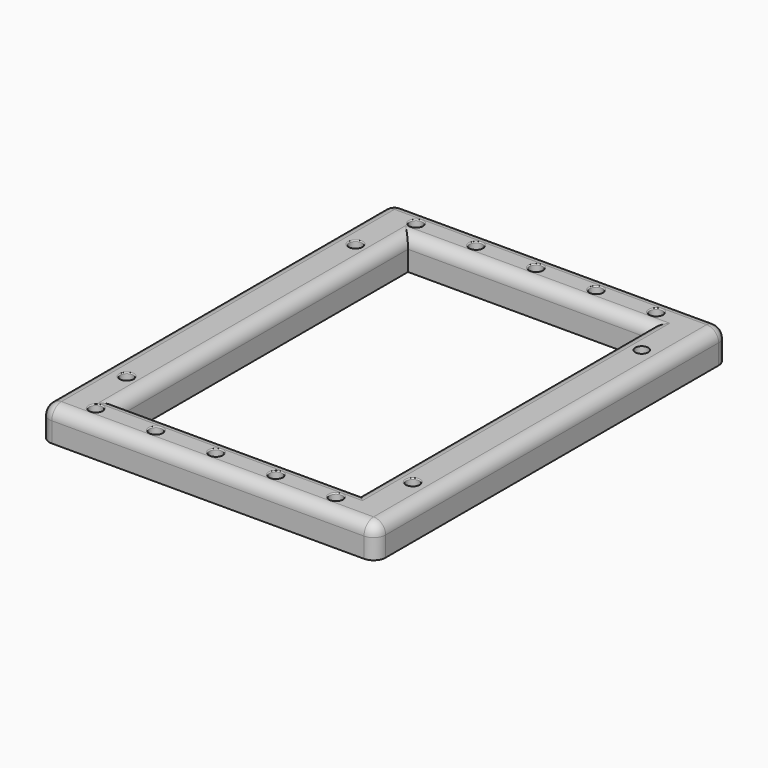
from build123d import *

# Parameters (mm, degrees)
SKETCH015_R      = 3
EXTRUDE015_DEPTH = 3.5
SKETCH014_W      = 84
SKETCH014_H      = 110
SKETCH014_R      = 1.625
SKETCH014_W_2    = 60
SKETCH014_H_2    = 90
EXTRUDE014_DEPTH = 8
FILLET020_R      = 3
FILLET021_R      = 0.25


with BuildPart() as extrude015:
    # Sketch015 → Extrude015 (new body)
    with BuildSketch(Plane.XY):
        with Locations((24.3, 95.75)):
            Circle(SKETCH015_R)
        with Locations((95.8, 95.75)):
            Circle(SKETCH015_R)
        with Locations((95.8, 24.25)):
            Circle(SKETCH015_R)
        with Locations((24.3, 24.25)):
            Circle(SKETCH015_R)
    extrude(amount=EXTRUDE015_DEPTH)


with BuildPart() as n2holder001:
    # Sketch014 → Extrude014 (new body)
    with BuildSketch(Plane.XY):
        with Locations((60, 60)):
            Rectangle(SKETCH014_W, SKETCH014_H)
        with Locations((24.3, 95.75)):
            Circle(SKETCH014_R, mode=Mode.SUBTRACT)
        with Locations((95.8, 95.75)):
            Circle(SKETCH014_R, mode=Mode.SUBTRACT)
        with Locations((95.8, 24.25)):
            Circle(SKETCH014_R, mode=Mode.SUBTRACT)
        with Locations((24.3, 24.25)):
            Circle(SKETCH014_R, mode=Mode.SUBTRACT)
        with Locations((28, 10)):
            Circle(SKETCH014_R, mode=Mode.SUBTRACT)
        with Locations((43, 10)):
            Circle(SKETCH014_R, mode=Mode.SUBTRACT)
        with Locations((58, 10)):
            Circle(SKETCH014_R, mode=Mode.SUBTRACT)
        with Locations((73, 10)):
            Circle(SKETCH014_R, mode=Mode.SUBTRACT)
        with Locations((88, 10)):
            Circle(SKETCH014_R, mode=Mode.SUBTRACT)
        with Locations((28, 110)):
            Circle(SKETCH014_R, mode=Mode.SUBTRACT)
        with Locations((43, 110)):
            Circle(SKETCH014_R, mode=Mode.SUBTRACT)
        with Locations((58, 110)):
            Circle(SKETCH014_R, mode=Mode.SUBTRACT)
        with Locations((73, 110)):
            Circle(SKETCH014_R, mode=Mode.SUBTRACT)
        with Locations((88, 110)):
            Circle(SKETCH014_R, mode=Mode.SUBTRACT)
        with Locations((60, 60)):
            Rectangle(SKETCH014_W_2, SKETCH014_H_2, mode=Mode.SUBTRACT)
    extrude(amount=EXTRUDE014_DEPTH)

    # Fillet020
    fillet020_edges = [n2holder001.edges().sort_by_distance(p)[0] for p in [
        (18, 115, 4),
        (18, 5, 4),
        (18, 60, 8),
        (102, 5, 4),
        (60, 5, 8),
        (102, 115, 4),
        (102, 60, 8),
        (60, 115, 8),
        (30, 60, 8),
        (60, 15, 8),
        (90, 60, 8),
        (60, 105, 8),
    ]]
    fillet(fillet020_edges, radius=FILLET020_R)

    # Fillet021
    fillet021_edges = [n2holder001.edges().sort_by_distance(p)[0] for p in [
        (86.375, 110, 8),
        (71.375, 110, 8),
        (56.375, 110, 8),
        (41.375, 110, 8),
        (26.375, 110, 8),
        (86.375, 10, 8),
        (71.375, 10, 8),
        (56.375, 10, 8),
        (41.375, 10, 8),
        (26.375, 10, 8),
        (22.675, 24.25, 8),
        (94.175, 24.25, 8),
        (22.675, 95.75, 8),
    ]]
    fillet(fillet021_edges, radius=FILLET021_R)

    # Cut022: cut Extrude015
    add(extrude015.part, mode=Mode.SUBTRACT)


solid = n2holder001.part
